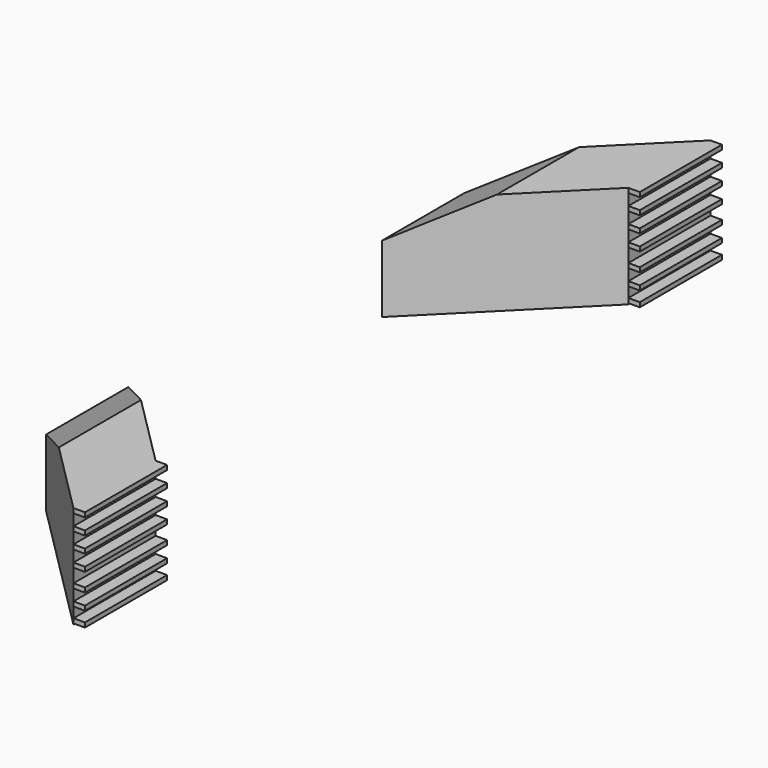
from build123d import *

# Parameters (mm, degrees)
BOX080_W     = 1
BOX080_H     = 9
BOX080_DEPTH = 0.4
BOX082_W     = 1
BOX082_H     = 9
BOX082_DEPTH = 0.4
BOX076_W     = 1
BOX076_H     = 9
BOX076_DEPTH = 0.4
BOX079_W     = 1
BOX079_H     = 9
BOX079_DEPTH = 0.4
BOX081_W     = 1
BOX081_H     = 9
BOX081_DEPTH = 0.4
BOX077_W     = 1
BOX077_H     = 9
BOX077_DEPTH = 0.4
BOX078_W     = 1
BOX078_H     = 9
BOX078_DEPTH = 0.4
PAD013_DEPTH = 21
PAD012_DEPTH = 9


with BuildPart() as cube071:
    # Box080 → Box080 (new body)
    with BuildSketch(Plane(origin=(12, -0.4, 5.8), x_dir=(1, 0, 0), z_dir=(0, 0, 1))):
        with Locations((0.5, 4.5)):
            Rectangle(BOX080_W, BOX080_H)
    extrude(amount=BOX080_DEPTH)


with BuildPart() as cube073:
    # Box082 → Box082 (new body)
    with BuildSketch(Plane(origin=(12, -0.4, 7.2), x_dir=(1, 0, 0), z_dir=(0, 0, 1))):
        with Locations((0.5, 4.5)):
            Rectangle(BOX082_W, BOX082_H)
    extrude(amount=BOX082_DEPTH)


with BuildPart() as cube067:
    # Box076 → Box076 (new body)
    with BuildSketch(Plane(origin=(12, -0.4, 0), x_dir=(1, 0, 0), z_dir=(0, 0, 1))):
        with Locations((0.5, 4.5)):
            Rectangle(BOX076_W, BOX076_H)
    extrude(amount=BOX076_DEPTH)


with BuildPart() as cube070:
    # Box079 → Box079 (new body)
    with BuildSketch(Plane(origin=(12, -0.4, 4.2), x_dir=(1, 0, 0), z_dir=(0, 0, 1))):
        with Locations((0.5, 4.5)):
            Rectangle(BOX079_W, BOX079_H)
    extrude(amount=BOX079_DEPTH)


with BuildPart() as cube072:
    # Box081 → Box081 (new body)
    with BuildSketch(Plane(origin=(12, -0.4, 8.5), x_dir=(1, 0, 0), z_dir=(0, 0, 1))):
        with Locations((0.5, 4.5)):
            Rectangle(BOX081_W, BOX081_H)
    extrude(amount=BOX081_DEPTH)


with BuildPart() as cube068:
    # Box077 → Box077 (new body)
    with BuildSketch(Plane(origin=(12, -0.4, 1.4), x_dir=(1, 0, 0), z_dir=(0, 0, 1))):
        with Locations((0.5, 4.5)):
            Rectangle(BOX077_W, BOX077_H)
    extrude(amount=BOX077_DEPTH)


with BuildPart() as cube069:
    # Box078 → Box078 (new body)
    with BuildSketch(Plane(origin=(12, -0.4, 2.8), x_dir=(1, 0, 0), z_dir=(0, 0, 1))):
        with Locations((0.5, 4.5)):
            Rectangle(BOX078_W, BOX078_H)
    extrude(amount=BOX078_DEPTH)


with BuildPart() as body010:
    # Sketch020 → Pad013 (new body)
    with BuildSketch(Plane.XZ):
        Polygon((0, 0), (0, 3.095906), (5.594027, 0), align=None)
    extrude(amount=-PAD013_DEPTH)


with BuildPart() as support001:
    # Sketch019 → Pad012 (new body)
    with BuildSketch(Plane.XY):
        Polygon((0, 20.591222), (12, 8.591222), (12, -0.408778), (0, 11.591222), align=None)
    extrude(amount=PAD012_DEPTH)

    # Cut072: cut Body010
    add(body010.part, mode=Mode.SUBTRACT)

    # Fusion041: union Cube071, Cube073, Cube067, Cube070, Cube072, Cube068, Cube069
    add(cube071.part)
    add(cube073.part)
    add(cube067.part)
    add(cube070.part)
    add(cube072.part)
    add(cube068.part)
    add(cube069.part)


with BuildPart() as fusion042:
    # Part__Mirroring009: instance of Support001
    add(support001.part.mirror(Plane(origin=(0, 0, 0), x_dir=(1, 0, 0), z_dir=(0, 1, 0))))


with BuildPart() as fusion042_1:
    # Part__Mirroring009 placement: moved
    add(fusion042.part.moved(Location((0, 69, 0))))

    # Fusion042: union Support001
    add(support001.part)


with BuildPart() as part_mirroring010:
    # Part__Mirroring010: instance of Fusion042
    add(fusion042_1.part.mirror(Plane(origin=(0, 0, 0), x_dir=(0, 1, 0), z_dir=(0, 0, 1))))


with BuildPart() as part_mirroring010_1:
    # Part__Mirroring010 placement: moved
    add(part_mirroring010.part.moved(Location((0, 0, 107))))


solid = part_mirroring010_1.part
